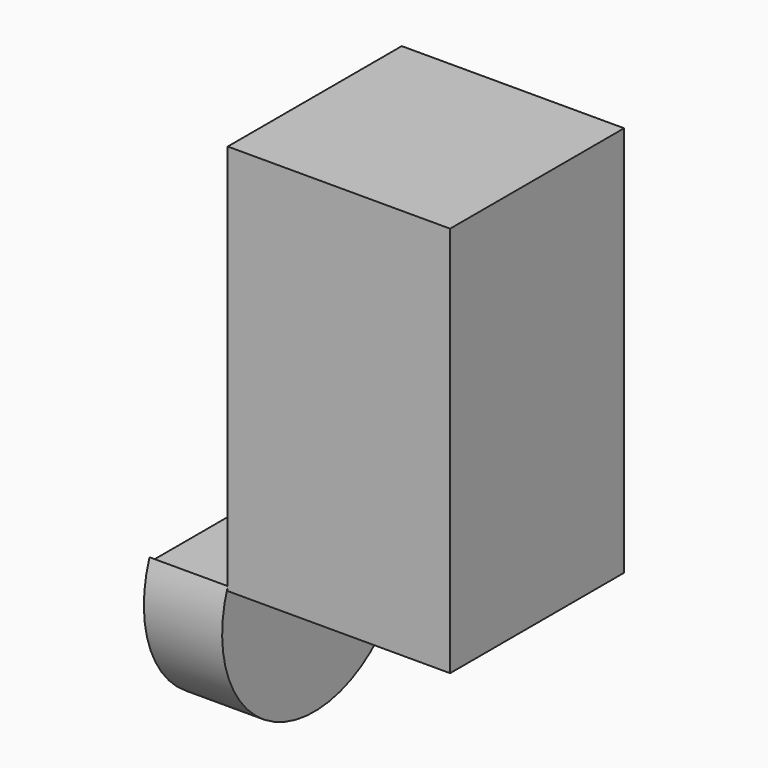
from build123d import *

# Parameters (mm, degrees)
F0_W     = 72.15764
F0_H     = 70.584545
F1_DEPTH = 127
F3_DEPTH = 25.4


with BuildPart() as f1:
    # F0 (on Top) → F1 (new body)
    with BuildSketch(Plane.XY):
        with Locations((-39.210735, -39.305309)):
            Rectangle(F0_W, F0_H)
    extrude(amount=F1_DEPTH)


with BuildPart() as f3:
    # F2 (on face) → F3 (new body)
    with BuildSketch(Plane(origin=(-75.289555, 0, 0), x_dir=(0, -1, 0), z_dir=(-1, 0, 0))):
        with BuildLine():
            Line((74.597582, 0), (4.013037, 0))
            ThreePointArc((4.013037, 0), (40.292985, -48.726382), (74.597582, 1.410327))
            Line((74.597582, 1.410327), (74.597582, 0))
        make_face()
    extrude(amount=F3_DEPTH)


solid = Compound([f1.part, f3.part])
